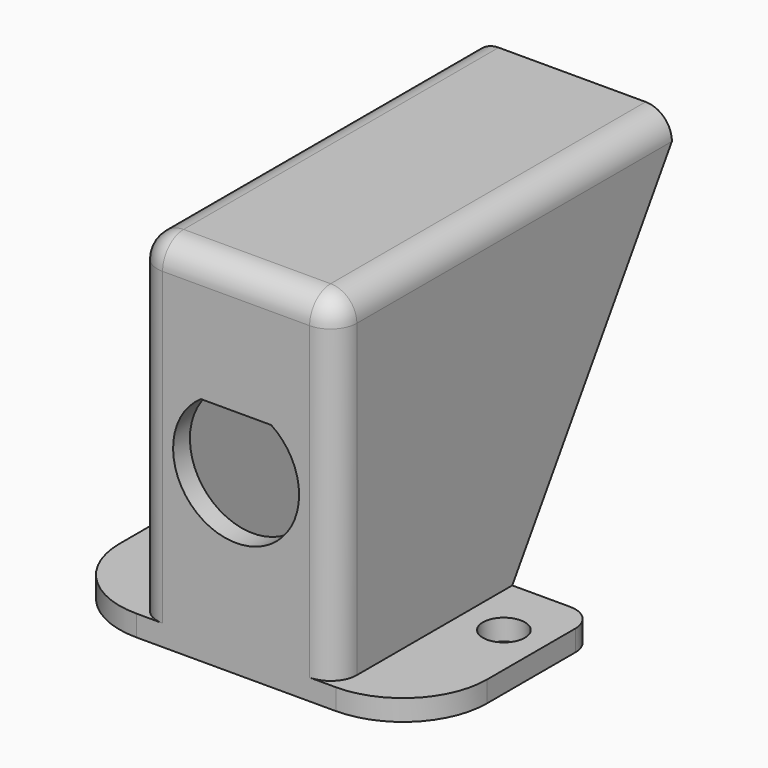
from build123d import *

# Parameters (mm, degrees)
F0_W      = 15
F0_H      = 30
F0_W_2    = 8
F0_H_2    = 2
F1_DEPTH  = 2
F2_DEPTH  = 38
F4_W      = 8
F4_H      = 19
F5_DEPTH  = 25
F6_D      = 4
F6_DEPTH  = 50
F6_TIP    = 1.2017212381
F7_R      = 2.5
F8_R      = 8
F10_DEPTH = 25


with BuildPart() as f1:
    # F0 (on Front) → F1 (new body)
    with BuildSketch(Plane.XZ):
        Polygon((9.5, -15), (9.5, 17), (-9.5, 17), (-9.5, -15), (-9.5, -17), (9.5, -17), align=None)
        Rectangle(F0_W, F0_H, mode=Mode.SUBTRACT)
        with Locations((13.5, -16)):
            Rectangle(F0_W_2, F0_H_2)
        with Locations((-13.5, -16)):
            Rectangle(F0_W_2, F0_H_2)
        Rectangle(F0_W, F0_H)
        with BuildLine():
            ThreePointArc((3.3443871458, 4.9814731375), (5.2946351562, 2.8225588679), (6, 0))
            ThreePointArc((6, 0), (-2.8225588679, -5.2946351562), (-3.3443871458, 4.9814731375))
            ThreePointArc((-3.3443871458, 4.9814731375), (0, 6), (3.3443871458, 4.9814731375))
        make_face(mode=Mode.SUBTRACT)
        with BuildLine():
            Line((-3.3443871458, 4.9814731375), (3.3443871458, 4.9814731375))
            ThreePointArc((3.3443871458, 4.9814731375), (0, 6), (-3.3443871458, 4.9814731375))
        make_face()
    extrude(amount=F1_DEPTH)

    # F0 (on Front) → F2 (join)
    with BuildSketch(Plane.XZ):
        Polygon((9.5, -15), (9.5, 17), (-9.5, 17), (-9.5, -15), (-9.5, -17), (9.5, -17), align=None)
        Rectangle(F0_W, F0_H, mode=Mode.SUBTRACT)
        with Locations((13.5, -16)):
            Rectangle(F0_W_2, F0_H_2)
        with Locations((-13.5, -16)):
            Rectangle(F0_W_2, F0_H_2)
    extrude(amount=-F2_DEPTH)

    # F4 (on offset) → F5 (cut)
    with BuildSketch(Plane.XY.offset(-15)):
        with Locations((-13.5, 28.5)):
            Rectangle(F4_W, F4_H)
        with Locations((13.5, 28.5)):
            Rectangle(F4_W, F4_H)
    extrude(amount=-F5_DEPTH, mode=Mode.SUBTRACT)

    # F6
    with Locations(Plane.XY.offset(-15)):
        with Locations((-13.5, 13), (13.5, 13)):
            Hole(F6_D / 2, depth=F6_DEPTH)
            with Locations((0, 0, -(F6_DEPTH + F6_TIP / 2))):  # 118° drill point
                Cone(0, F6_D / 2, F6_TIP, mode=Mode.SUBTRACT)

    # F7
    f7_edges = [f1.edges().sort_by_distance(p)[0] for p in [
        (9.5, -2, 1),
        (-9.5, -2, 1),
        (-9.5, 18, 17),
        (9.5, 18, 17),
        (0, -2, 17),
        (17.5, 19, -16),
        (-17.5, 19, -16),
    ]]
    fillet(f7_edges, radius=F7_R)

    # F8
    f8_edges = [f1.edges().sort_by_distance(p)[0] for p in [
        (-17.5, -2, -16),
        (17.5, -2, -16),
    ]]
    fillet(f8_edges, radius=F8_R)

    # F9 (on face) → F10 (cut)
    with BuildSketch(Plane(origin=(-9.5, 0, 0), x_dir=(0, -1, 0), z_dir=(-1, 0, 0))):
        Polygon((-19, -15), (-38, 14.5), (-38, -17), (-19, -17), align=None)
    extrude(amount=-F10_DEPTH, mode=Mode.SUBTRACT)


solid = f1.part
